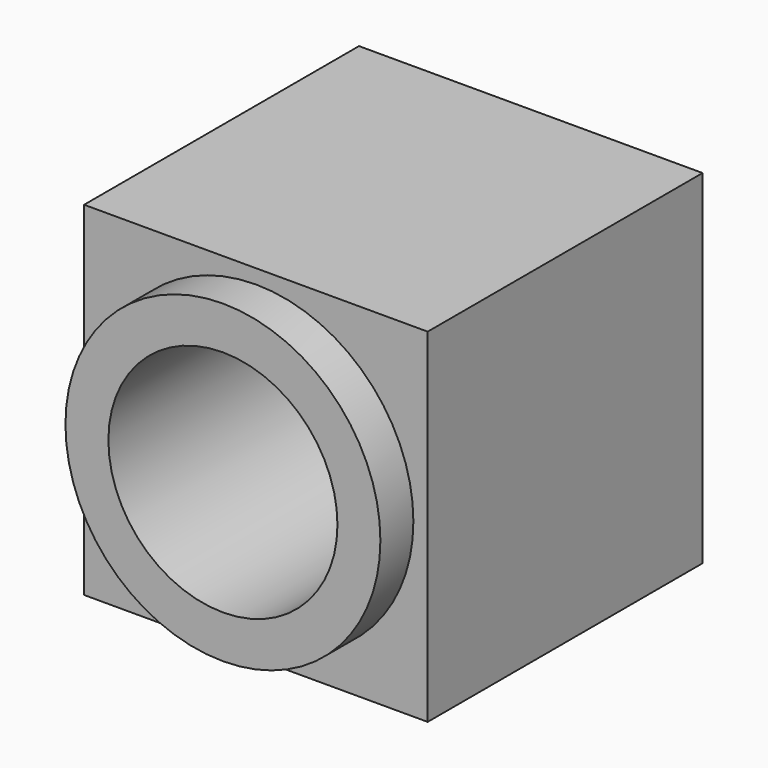
from build123d import *

# Parameters (mm, degrees)
F0_R     = 34.925
F0_R_2   = 25.4
F1_DEPTH = 85.344
F2_DEPTH = 76.2


with BuildPart() as f1:
    # F0 (on Front) → F1 (new body)
    with BuildSketch(Plane.XZ):
        Circle(F0_R)
        Circle(F0_R_2, mode=Mode.SUBTRACT)
    extrude(amount=F1_DEPTH)

    # F0 (on Front) → F2 (join)
    with BuildSketch(Plane.XZ):
        Polygon((38.1, 38.1), (0, 38.1), (-38.1, 38.1), (-38.1, -38.1), (38.1, -38.1), align=None)
        Circle(F0_R, mode=Mode.SUBTRACT)
    extrude(amount=F2_DEPTH)


solid = f1.part
